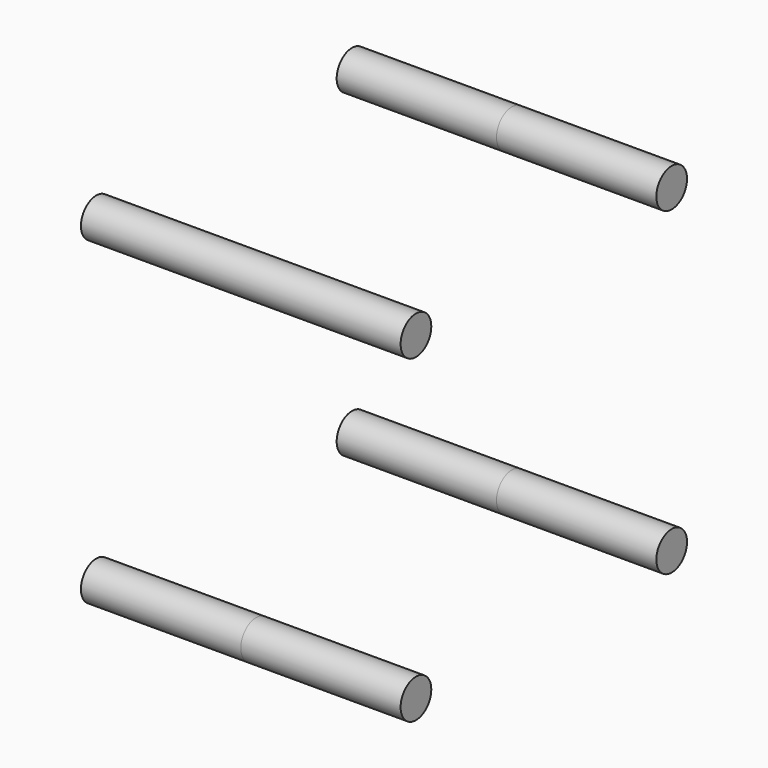
from build123d import *

# Parameters (mm, degrees)
F0_R     = 1.5
F1_DEPTH = 12.5


with BuildPart() as f1:
    # F0 (on Right) → F1 (new body, symmetric)
    with BuildSketch(Plane.YZ):
        with Locations((12.5, 12.5)):
            Circle(F0_R)
        with Locations((12.5, -12.5)):
            Circle(F0_R)
        with Locations((-12.5, -12.5)):
            Circle(F0_R)
        with Locations((-12.5, 12.5)):
            Circle(F0_R)
    extrude(amount=F1_DEPTH, both=True)


solid = f1.part
